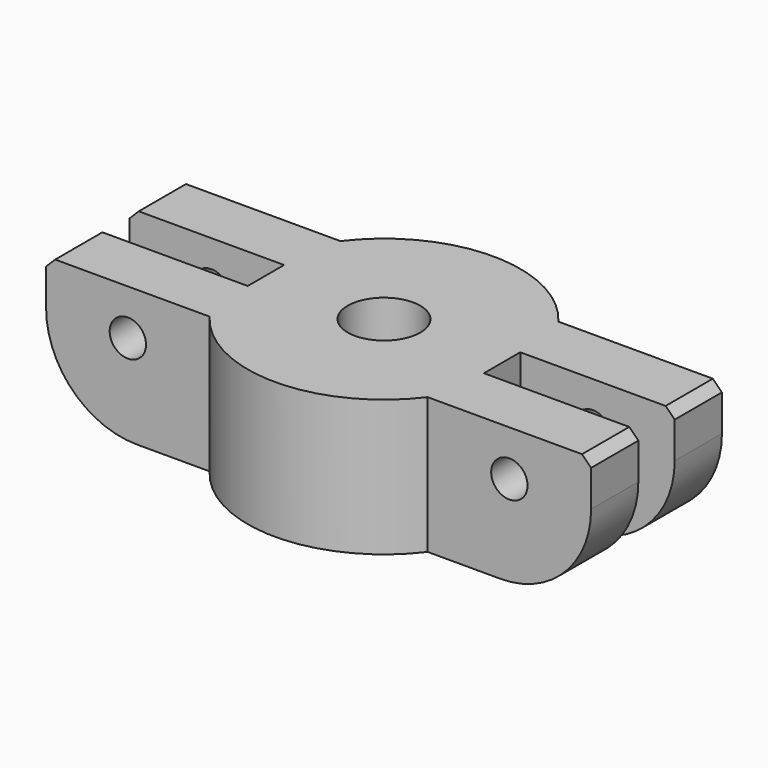
from build123d import *

# Parameters (mm, degrees)
F0_R     = 4
F1_DEPTH = 15
F3_DEPTH = 5
F4_R     = 2
F5_DEPTH = 24.001
F6_R     = 10
F7_SIZE  = 1


with BuildPart() as f1:
    # F0 (on Top) → F1 (new body)
    with BuildSketch(Plane.XY):
        with BuildLine():
            Line((-30, -9), (-12, -9))
            ThreePointArc((-12, -9), (0, -15), (12, -9))
            Line((12, -9), (30, -9))
            Line((30, -9), (30, -2.5))
            Line((30, -2.5), (13, -2.5))
            Line((13, -2.5), (13, 0))
            Line((13, 0), (13, 2.5))
            Line((13, 2.5), (30, 2.5))
            Line((30, 2.5), (30, 9))
            Line((30, 9), (12, 9))
            ThreePointArc((12, 9), (0, 15), (-12, 9))
            Line((-12, 9), (-30, 9))
            Line((-30, 9), (-30, 2.5))
            Line((-30, 2.5), (-13, 2.5))
            Line((-13, 2.5), (-13, 0))
            Line((-13, 0), (-13, -2.5))
            Line((-13, -2.5), (-30, -2.5))
            Line((-30, -2.5), (-30, -9))
        make_face()
        Circle(F0_R, mode=Mode.SUBTRACT)
    extrude(amount=F1_DEPTH)

    # F2 (on face) → F3 (cut)
    with BuildSketch(Plane(origin=(0, 0, 0), x_dir=(1, 0, 0), z_dir=(0, 0, -1))):
        Polygon((3.752777, -6.5), (7.505553, 0), (3.752777, 6.5), (-3.752777, 6.5), (-7.505553, 0), (-3.752777, -6.5), align=None)
    extrude(amount=-F3_DEPTH, mode=Mode.SUBTRACT)

    # F4 (on face) → F5 (cut, through all)
    with BuildSketch(Plane.XZ.offset(9)):
        with Locations((-21, 10)):
            Circle(F4_R)
        with Locations((21, 10)):
            Circle(F4_R)
    extrude(amount=-F5_DEPTH, mode=Mode.SUBTRACT)

    # F6
    f6_edges = [f1.edges().sort_by_distance(p)[0] for p in [
        (-30, -5.75, 0),
        (-30, 5.75, 0),
        (30, -5.75, 0),
        (30, 5.75, 0),
    ]]
    fillet(f6_edges, radius=F6_R)

    # F7
    f7_edges = [f1.edges().sort_by_distance(p)[0] for p in [
        (-30, 5.75, 15),
        (-30, -5.75, 15),
        (30, 5.75, 15),
        (30, -5.75, 15),
    ]]
    chamfer(f7_edges, length=F7_SIZE)


solid = f1.part
